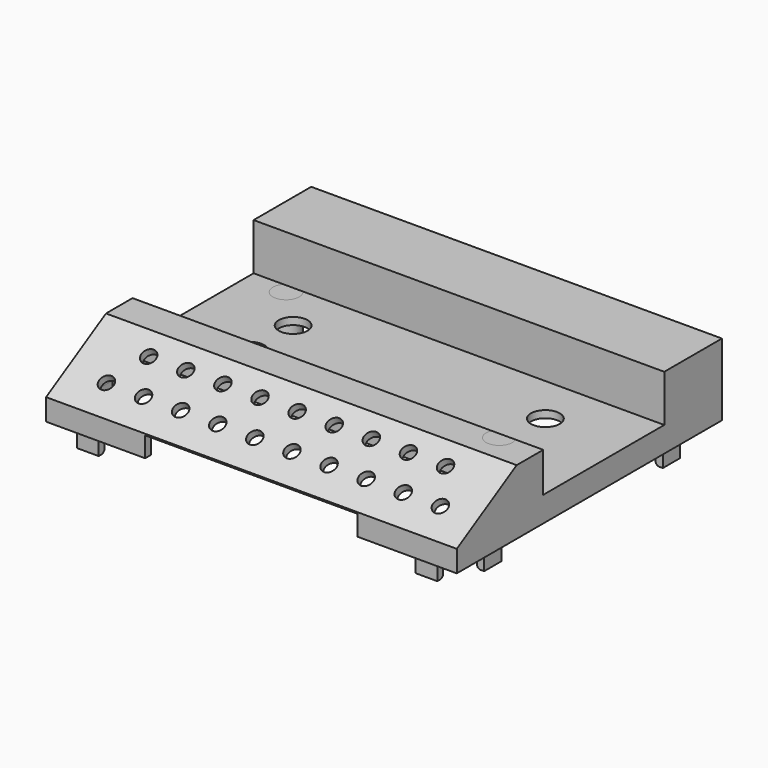
from build123d import *

# Parameters (mm, degrees)
PAD_DEPTH                = 57
SKETCH001_W              = 10
SKETCH001_H              = 59
POCKET_DEPTH             = 2
SKETCH002_W              = 11
SKETCH002_H              = 6.2
POCKET001_DEPTH          = 2
SKETCH003_W              = 21
SKETCH003_H              = 21
POCKET002_DEPTH          = 2
SKETCH004_W              = 9.2
SKETCH004_H              = 11
POCKET003_DEPTH          = 2
PAD001_DEPTH             = 2
PAD002_DEPTH             = 2
SKETCH013_R              = 2
POCKET006_DEPTH          = 2
SKETCH014_R              = 4
POCKET007_DEPTH          = 2
SKETCH007_R              = 3.65
PAD003_DEPTH             = 11
SKETCH008_R              = 1.8
POCKET004_DEPTH          = 8
HOLE_D                   = 4.4
HOLE_DEPTH               = 0.8
HOLE_CSINK_D             = 4.8
HOLE_CSINK_ANGLE         = 90
HOLE_TIPS_R              = 2.2
SKETCH012_W              = 42
SKETCH012_H              = 13
PAD005_DEPTH             = 57
SKETCH010_R              = 3.65
PAD004_DEPTH             = 22
SKETCH011_R              = 1.8
POCKET005_DEPTH          = 8
HOLE001_D                = 4.4
HOLE001_DEPTH            = 0.8
HOLE001_CSINK_D          = 4.8
HOLE001_CSINK_ANGLE      = 90
HOLE001_TIPS_R           = 2.2
SKETCH015_W              = 6
SKETCH015_H              = 2
PAD006_DEPTH             = 5
FILLET_R                 = 1
CLONE001_PLACEMENT_ANGLE = 180
CLONE002_PLACEMENT_ANGLE = 180
CLONE003_PLACEMENT_ANGLE = 90
CLONE004_PLACEMENT_ANGLE = 90
CLONE005_PLACEMENT_ANGLE = 270
CLONE006_PLACEMENT_ANGLE = 90


with BuildPart() as case_top_body:
    # Sketch → Pad (new body, symmetric)
    with BuildSketch(Plane.YZ):
        Polygon((-46, 0), (-46, 6), (-25.2153903092, 18), (-16, 18), (-16, 7), (26, 7), (26, 20), (46, 20), (46, 0), (44, 0), (44, 18), (28, 18), (28, 5), (-18, 5), (-18, 16), (-24.6794919243, 16), (-44, 4.8452994616), (-44, 0), align=None)
    extrude(amount=PAD_DEPTH, both=True)

    # Sketch001 (on Face1 of Pad) → Pocket (cut)
    with BuildSketch(Plane(origin=(0, -46, 0), x_dir=(0, 0, -1), z_dir=(0, -1, 0))):
        with Locations((-0.6, 0)):
            Rectangle(SKETCH001_W, SKETCH001_H)
    extrude(amount=-POCKET_DEPTH, mode=Mode.SUBTRACT)

    # Sketch002 (on Face15 of Pocket) → Pocket001 (cut)
    with BuildSketch(Plane(origin=(0, 46, 0), x_dir=(-1, 0, 0), z_dir=(0, 1, 0))):
        with Locations((0, -2.9)):
            Rectangle(SKETCH002_W, SKETCH002_H)
    extrude(amount=-POCKET001_DEPTH, mode=Mode.SUBTRACT)

    # Sketch003 (on Face15 of Pocket001) → Pocket002 (cut)
    with BuildSketch(Plane(origin=(0, 46, 0), x_dir=(-1, 0, 0), z_dir=(0, 1, 0))):
        with Locations((30.48, 6.1)):
            Rectangle(SKETCH003_W, SKETCH003_H)
    extrude(amount=-POCKET002_DEPTH, mode=Mode.SUBTRACT)

    # Sketch004 (on Face15 of Pocket002) → Pocket003 (cut)
    with BuildSketch(Plane(origin=(0, 46, 0), x_dir=(-1, 0, 0), z_dir=(0, 1, 0))):
        with Locations((-33, 1.1)):
            Rectangle(SKETCH004_W, SKETCH004_H)
    extrude(amount=-POCKET003_DEPTH, mode=Mode.SUBTRACT)

    # Sketch005 → Pad001 (join)
    with BuildSketch(Plane.YZ.offset(-57)):
        Polygon((-46, 0), (46, 0), (46, 20), (26, 20), (26, 7), (-16, 7), (-16, 18), (-25.2153903092, 18), (-46, 6), align=None)
    extrude(amount=PAD001_DEPTH)

    # Sketch006 → Pad002 (join)
    with BuildSketch(Plane.YZ.offset(57)):
        Polygon((-46, 0), (46, 0), (46, 20), (26, 20), (26, 7), (-16, 7), (-16, 18), (-25.2153903092, 18), (-46, 6), align=None)
    extrude(amount=-PAD002_DEPTH)

    # Sketch013 (on DatumPlane) → Pocket006 (cut)
    with BuildSketch(Plane(origin=(0, -46, 6), x_dir=(1, 0, 0), z_dir=(0, -0.5, 0.8660254038))):
        with Locations((-40.85, 17.8)):
            Circle(SKETCH013_R)
        with Locations((-46, 8.3)):
            Circle(SKETCH013_R)
        with Locations((-30.55, 17.8)):
            Circle(SKETCH013_R)
        with Locations((-20.25, 17.8)):
            Circle(SKETCH013_R)
        with Locations((-9.95, 17.8)):
            Circle(SKETCH013_R)
        with Locations((0.35, 17.8)):
            Circle(SKETCH013_R)
        with Locations((10.65, 17.8)):
            Circle(SKETCH013_R)
        with Locations((20.95, 17.8)):
            Circle(SKETCH013_R)
        with Locations((31.25, 17.8)):
            Circle(SKETCH013_R)
        with Locations((41.55, 17.8)):
            Circle(SKETCH013_R)
        with Locations((-35.7, 8.3)):
            Circle(SKETCH013_R)
        with Locations((-25.4, 8.2999999999)):
            Circle(SKETCH013_R)
        with Locations((-15.1, 8.2999999999)):
            Circle(SKETCH013_R)
        with Locations((-4.8, 8.2999999999)):
            Circle(SKETCH013_R)
        with Locations((5.5, 8.2999999998)):
            Circle(SKETCH013_R)
        with Locations((15.8, 8.2999999998)):
            Circle(SKETCH013_R)
        with Locations((26.1, 8.2999999998)):
            Circle(SKETCH013_R)
        with Locations((36.4, 8.2999999997)):
            Circle(SKETCH013_R)
        with Locations((46.7, 8.2999999997)):
            Circle(SKETCH013_R)
    extrude(amount=-POCKET006_DEPTH, mode=Mode.SUBTRACT)

    # Sketch014 → Pocket007 (cut)
    with BuildSketch(Plane.XY.offset(7)):
        with Locations((-35, -2.77)):
            Circle(SKETCH014_R)
        with Locations((-35, 12.23)):
            Circle(SKETCH014_R)
        with Locations((35, 12.23)):
            Circle(SKETCH014_R)
    extrude(amount=-POCKET007_DEPTH, mode=Mode.SUBTRACT)


with BuildPart() as post1:
    # Sketch007 → Pad003 (new body)
    with BuildSketch(Plane.XY):
        Circle(SKETCH007_R)
    extrude(amount=PAD003_DEPTH)

    # Sketch008 (on Face2 of Pad003) → Pocket004 (cut)
    with BuildSketch(Plane(origin=(0, 0, 0), x_dir=(1, 0, 0), z_dir=(0, 0, -1))):
        Circle(SKETCH008_R)
    extrude(amount=-POCKET004_DEPTH, mode=Mode.SUBTRACT)

    # Hole
    with Locations(Plane(origin=(0, 0, 0), x_dir=(1, 0, 0), z_dir=(0, 0, -1))):
        with Locations((0, 0)):
            CounterSinkHole(HOLE_D / 2, HOLE_CSINK_D / 2, depth=HOLE_DEPTH, counter_sink_angle=HOLE_CSINK_ANGLE)

    # Hole tips → Hole tip 1 section 0
    with BuildSketch(Plane(origin=(0, 0, 0.8), x_dir=(1, 0, 0), z_dir=(0, 0, -1)), mode=Mode.PRIVATE) as hole_tip_1_s0:
        Circle(HOLE_TIPS_R)
    loft([hole_tip_1_s0.sketch, Vertex(0, 0, 2.1218933619)], mode=Mode.SUBTRACT)


with BuildPart() as post1_1:
    # Body001 placement: moved
    add(post1.part.moved(Location((-46, 23.5, -4))))


with BuildPart() as cutout:
    # Sketch012 → Pad005 (new body, symmetric)
    with BuildSketch(Plane.YZ):
        with Locations((5, 13.5)):
            Rectangle(SKETCH012_W, SKETCH012_H)
    extrude(amount=PAD005_DEPTH, both=True)


with BuildPart() as post2:
    # Sketch010 → Pad004 (new body)
    with BuildSketch(Plane.XY):
        Circle(SKETCH010_R)
    extrude(amount=PAD004_DEPTH)

    # Sketch011 (on Face2 of Pad004) → Pocket005 (cut)
    with BuildSketch(Plane(origin=(0, 0, 0), x_dir=(1, 0, 0), z_dir=(0, 0, -1))):
        Circle(SKETCH011_R)
    extrude(amount=-POCKET005_DEPTH, mode=Mode.SUBTRACT)

    # Hole001
    with Locations(Plane(origin=(0, 0, 0), x_dir=(1, 0, 0), z_dir=(0, 0, -1))):
        with Locations((0, 0)):
            CounterSinkHole(HOLE001_D / 2, HOLE001_CSINK_D / 2, depth=HOLE001_DEPTH, counter_sink_angle=HOLE001_CSINK_ANGLE)

    # Hole001 tips → Hole001 tip 1 section 0
    with BuildSketch(Plane(origin=(0, 0, 0.8), x_dir=(1, 0, 0), z_dir=(0, 0, -1)), mode=Mode.PRIVATE) as hole001_tip_1_s0:
        Circle(HOLE001_TIPS_R)
    loft([hole001_tip_1_s0.sketch, Vertex(0, 0, 2.1218933619)], mode=Mode.SUBTRACT)


with BuildPart() as post2_1:
    # Body002 placement: moved
    add(post2.part.moved(Location((46, -17.5, -4))))

    # Cut: cut Cutout
    add(cutout.part, mode=Mode.SUBTRACT)


with BuildPart() as tab1:
    # Sketch015 → Pad006 (new body, symmetric)
    with BuildSketch(Plane.XY):
        with Locations((0, -1)):
            Rectangle(SKETCH015_W, SKETCH015_H)
    extrude(amount=PAD006_DEPTH, both=True)

    # Fillet
    fillet_edges = [tab1.edges().sort_by_distance(p)[0] for p in [
        (0, -2, -5),
        (0, -2, 5),
    ]]
    fillet(fillet_edges, radius=FILLET_R)


with BuildPart() as tab1_1:
    # Body004 placement: moved
    add(tab1.part.moved(Location((-47, 44, 0))))


with BuildPart() as tab2:
    # Clone base: copy of Tab1
    add(tab1_1.part)


with BuildPart() as tab2_1:
    # Clone placement: moved
    add(tab2.part.moved(Location((94, 0, 0))))


with BuildPart() as tab3:
    # Clone001 base: copy of Tab1
    add(tab1_1.part)


with BuildPart() as tab3_1:
    # Clone001 placement: moved
    add(tab3.part.moved(Location((0, 0, 0))).rotate(Axis((0, 0, 0), (0, 0, 1)), CLONE001_PLACEMENT_ANGLE))


with BuildPart() as tab4:
    # Clone002 base: copy of Tab1
    add(tab1_1.part)


with BuildPart() as tab4_1:
    # Clone002 placement: moved
    add(tab4.part.moved(Location((-94, 0, 0))).rotate(Axis((-94, 0, 0), (0, 0, 1)), CLONE002_PLACEMENT_ANGLE))


with BuildPart() as tab5:
    # Clone003 base: copy of Tab1
    add(tab1_1.part)


with BuildPart() as tab5_1:
    # Clone003 placement: moved
    add(tab5.part.moved(Location((-11, 78, 0))).rotate(Axis((-11, 78, 0), (0, 0, 1)), CLONE003_PLACEMENT_ANGLE))


with BuildPart() as tab6:
    # Clone004 base: copy of Tab1
    add(tab1_1.part)


with BuildPart() as tab6_1:
    # Clone004 placement: moved
    add(tab6.part.moved(Location((-11, 16, 0))).rotate(Axis((-11, 16, 0), (0, 0, 1)), CLONE004_PLACEMENT_ANGLE))


with BuildPart() as tab7:
    # Clone005 base: copy of Tab1
    add(tab1_1.part)


with BuildPart() as tab7_1:
    # Clone005 placement: moved
    add(tab7.part.moved(Location((11, -78, 0))).rotate(Axis((11, -78, 0), (0, 0, 1)), CLONE005_PLACEMENT_ANGLE))


with BuildPart() as tab8:
    # Clone006 base: copy of Tab1
    add(tab1_1.part)


with BuildPart() as tab8_1:
    # Clone006 placement: moved
    add(tab8.part.moved(Location((11, -16, 0))).rotate(Axis((11, -16, 0), (0, 0, -1)), CLONE006_PLACEMENT_ANGLE))


solid = Compound([case_top_body.part, post1_1.part, post2_1.part, tab1_1.part, tab2_1.part, tab3_1.part, tab4_1.part, tab5_1.part, tab6_1.part, tab7_1.part, tab8_1.part])
